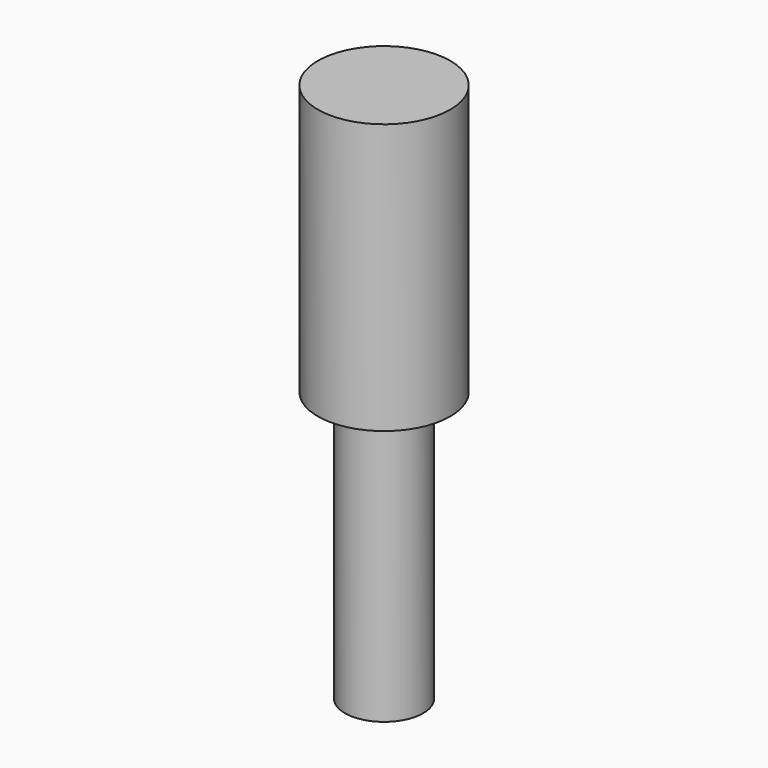
from build123d import *

# Parameters (mm, degrees)
F0_R     = 2.45
F0_R_2   = 1.5
F1_DEPTH = 10
F2_R     = 1.45
F3_DEPTH = 10


with BuildPart() as f1:
    # F0 (on Top) → F1 (new body)
    with BuildSketch(Plane.XY):
        Circle(F0_R)
        Circle(F0_R_2, mode=Mode.SUBTRACT)
        Circle(F0_R_2)
    extrude(amount=F1_DEPTH)

    # F2 (on face) → F3 (join)
    with BuildSketch(Plane(origin=(0, 0, 0), x_dir=(1, 0, 0), z_dir=(0, 0, -1))):
        Circle(F2_R)
    extrude(amount=F3_DEPTH)


solid = f1.part
